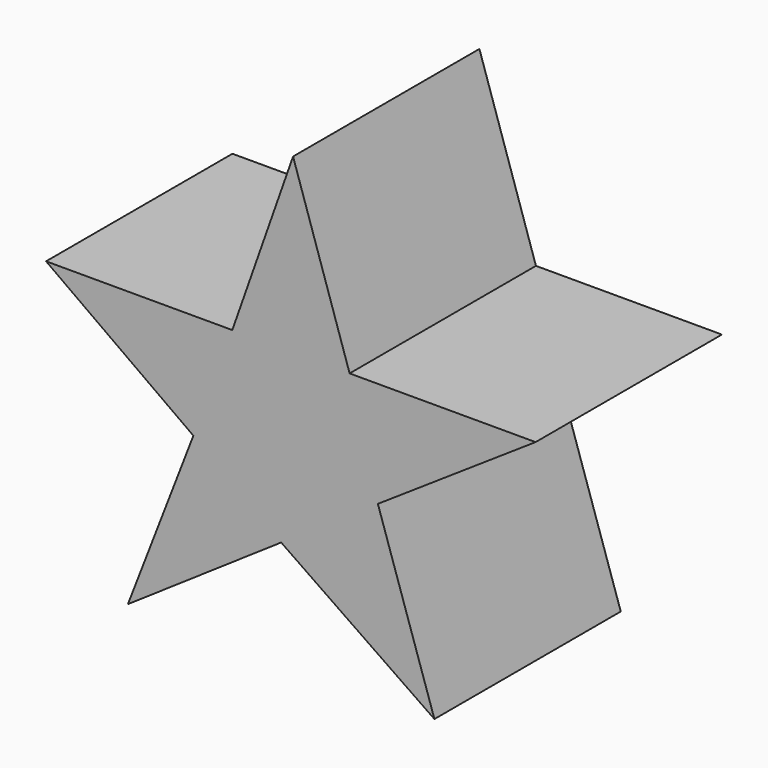
from build123d import *

# Parameters (mm, degrees)
F0_W     = 94.5225581527
F0_H     = 71.0351280868
F1_DEPTH = 25.4
F3_DEPTH = 6.35
F4_DEPTH = 25.4


with BuildPart() as f1:
    # F0 (on Front) → F1 (new body)
    with BuildSketch(Plane.XZ):
        with Locations((6.3969828188, -10.8844134957)):
            Rectangle(F0_W, F0_H)
    extrude(amount=F1_DEPTH)

    # F2 (on face) → F3 (join)
    with BuildSketch(Plane.XZ.offset(25.4)):
        Polygon((0, -3.5492395982), (-25.3826901317, -3.5492395982), (-5.3041339852, -17.9490111768), (-14.2279369757, -41.0697720945), (6.6618728451, -26.8728137016), (27.5516826659, -41.2725880742), (19.8447629809, -17.9490111768), (41.3430146873, -3.5492395982), (15.9913022071, -3.5492395982), (8.2843825221, 19.9771486223), align=None)
    extrude(amount=F3_DEPTH)

    # F4 (cut): a face of the model
    f4_faces = [f1.faces().sort_by_distance(p)[0] for p in [
        (6.3969828188, -25.4, 23.450758759),
    ]]
    extrude(f4_faces, amount=-F4_DEPTH, mode=Mode.SUBTRACT)


solid = f1.part
